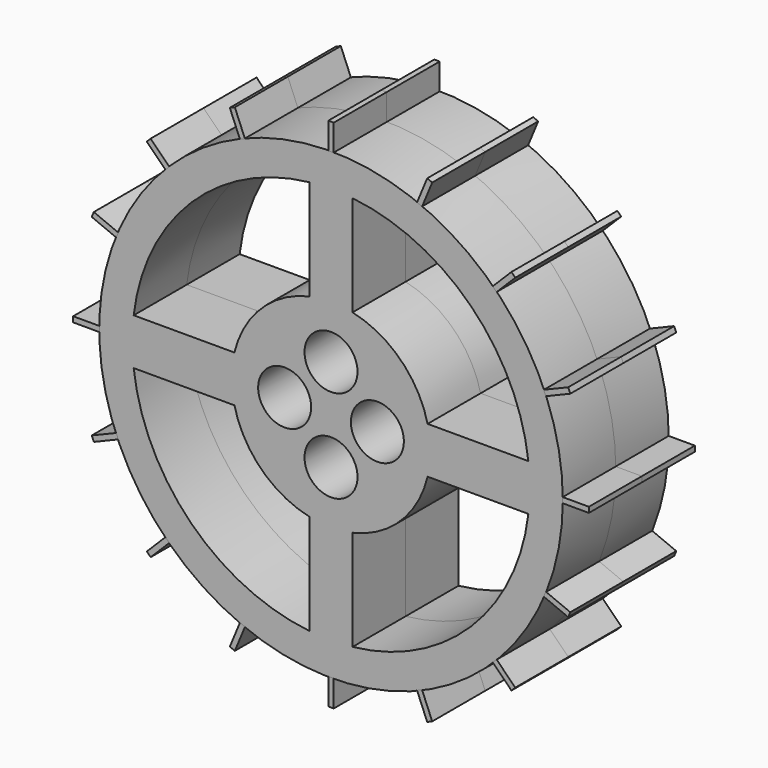
from build123d import *

# Parameters (mm, degrees)
F0_R      = 44.45
F1_DEPTH  = 12.7
F3_D      = 76.2
F4_W      = 38.530776
F4_H      = 8.910986
F4_W_2    = 8.252282
F4_H_2    = 37.693239
F5_DEPTH  = 12.7
F6_R      = 19.05
F7_DEPTH  = 12.7
F8_R      = 5.08
F9_DEPTH  = 12.701
F10_W     = 1.040262
F10_H     = 5.08
F11_DEPTH = 12.7
F12_COUNT = 16


with BuildPart() as f1:
    # F0 (on Front) → F1 (new body)
    with BuildSketch(Plane.XZ):
        Circle(F0_R)
    extrude(amount=F1_DEPTH)

    # F3 (through all)
    with Locations(Plane.XZ.offset(12.7)):
        with Locations((0, 0)):
            Hole(F3_D / 2)

    # F4 (on Front) → F5 (join)
    with BuildSketch(Plane.XZ):
        with Locations((23.391529, 0)):
            Rectangle(F4_W, F4_H)
        with Locations((-23.391529, 0)):
            Rectangle(F4_W, F4_H)
        with Locations((0, -23.302112)):
            Rectangle(F4_W_2, F4_H_2)
        with Locations((0, 23.302112)):
            Rectangle(F4_W_2, F4_H_2)
        with Locations((0, -23.302112)):
            Rectangle(F4_W_2, F4_H_2)
    extrude(amount=F5_DEPTH)

    # F6 (on Front) → F7 (join)
    with BuildSketch(Plane.XZ):
        Circle(F6_R)
    extrude(amount=F7_DEPTH)

    # F8 (on Front) → F9 (cut, through all)
    with BuildSketch(Plane.XZ):
        with Locations((0, 8.89)):
            Circle(F8_R)
        with Locations((8.89, 0)):
            Circle(F8_R)
        with Locations((0, -8.89)):
            Circle(F8_R)
        with Locations((-8.89, 0)):
            Circle(F8_R)
    extrude(amount=F9_DEPTH, mode=Mode.SUBTRACT)


with BuildPart() as f11:
    # F10 (on Front) → F11 (new body)
    with BuildSketch(Plane.XZ):
        with Locations((0, 46.90598)):
            Rectangle(F10_W, F10_H)
    extrude(amount=F11_DEPTH)


with BuildPart() as f12_1:
    # F12: instance of F11
    add(f11.part.rotate(Axis((0, 0, 0), (0, 1, 0)), 1 * 360 / F12_COUNT))


with BuildPart() as f12_2:
    # F12: instance of F11
    add(f11.part.rotate(Axis((0, 0, 0), (0, 1, 0)), 2 * 360 / F12_COUNT))


with BuildPart() as f12_3:
    # F12: instance of F11
    add(f11.part.rotate(Axis((0, 0, 0), (0, 1, 0)), 3 * 360 / F12_COUNT))


with BuildPart() as f12_4:
    # F12: instance of F11
    add(f11.part.rotate(Axis((0, 0, 0), (0, 1, 0)), 4 * 360 / F12_COUNT))


with BuildPart() as f12_5:
    # F12: instance of F11
    add(f11.part.rotate(Axis((0, 0, 0), (0, 1, 0)), 5 * 360 / F12_COUNT))


with BuildPart() as f12_6:
    # F12: instance of F11
    add(f11.part.rotate(Axis((0, 0, 0), (0, 1, 0)), 6 * 360 / F12_COUNT))


with BuildPart() as f12_7:
    # F12: instance of F11
    add(f11.part.rotate(Axis((0, 0, 0), (0, 1, 0)), 7 * 360 / F12_COUNT))


with BuildPart() as f12_8:
    # F12: instance of F11
    add(f11.part.rotate(Axis((0, 0, 0), (0, 1, 0)), 8 * 360 / F12_COUNT))


with BuildPart() as f12_9:
    # F12: instance of F11
    add(f11.part.rotate(Axis((0, 0, 0), (0, 1, 0)), 9 * 360 / F12_COUNT))


with BuildPart() as f12_10:
    # F12: instance of F11
    add(f11.part.rotate(Axis((0, 0, 0), (0, 1, 0)), 10 * 360 / F12_COUNT))


with BuildPart() as f12_11:
    # F12: instance of F11
    add(f11.part.rotate(Axis((0, 0, 0), (0, 1, 0)), 11 * 360 / F12_COUNT))


with BuildPart() as f12_12:
    # F12: instance of F11
    add(f11.part.rotate(Axis((0, 0, 0), (0, 1, 0)), 12 * 360 / F12_COUNT))


with BuildPart() as f12_13:
    # F12: instance of F11
    add(f11.part.rotate(Axis((0, 0, 0), (0, 1, 0)), 13 * 360 / F12_COUNT))


with BuildPart() as f12_14:
    # F12: instance of F11
    add(f11.part.rotate(Axis((0, 0, 0), (0, 1, 0)), 14 * 360 / F12_COUNT))


with BuildPart() as f12_15:
    # F12: instance of F11
    add(f11.part.rotate(Axis((0, 0, 0), (0, 1, 0)), 15 * 360 / F12_COUNT))


with BuildPart() as f13_1:
    # F13: instance of F12_15
    add(f12_15.part.mirror(Plane.XZ))


with BuildPart() as f13_2:
    # F13: instance of F12_14
    add(f12_14.part.mirror(Plane.XZ))


with BuildPart() as f13_3:
    # F13: instance of F12_13
    add(f12_13.part.mirror(Plane.XZ))


with BuildPart() as f13_4:
    # F13: instance of F12_12
    add(f12_12.part.mirror(Plane.XZ))


with BuildPart() as f13_5:
    # F13: instance of F12_11
    add(f12_11.part.mirror(Plane.XZ))


with BuildPart() as f13_6:
    # F13: instance of F12_10
    add(f12_10.part.mirror(Plane.XZ))


with BuildPart() as f13_7:
    # F13: instance of F12_9
    add(f12_9.part.mirror(Plane.XZ))


with BuildPart() as f13_8:
    # F13: instance of F12_8
    add(f12_8.part.mirror(Plane.XZ))


with BuildPart() as f13_9:
    # F13: instance of F12_7
    add(f12_7.part.mirror(Plane.XZ))


with BuildPart() as f13_10:
    # F13: instance of F12_6
    add(f12_6.part.mirror(Plane.XZ))


with BuildPart() as f13_11:
    # F13: instance of F12_5
    add(f12_5.part.mirror(Plane.XZ))


with BuildPart() as f13_12:
    # F13: instance of F12_4
    add(f12_4.part.mirror(Plane.XZ))


with BuildPart() as f13_13:
    # F13: instance of F12_3
    add(f12_3.part.mirror(Plane.XZ))


with BuildPart() as f13_14:
    # F13: instance of F12_2
    add(f12_2.part.mirror(Plane.XZ))


with BuildPart() as f13_15:
    # F13: instance of F12_1
    add(f12_1.part.mirror(Plane.XZ))


with BuildPart() as f13_16:
    # F13: instance of F11
    add(f11.part.mirror(Plane.XZ))


with BuildPart() as f13_17:
    # F13: instance of F1
    add(f1.part.mirror(Plane.XZ))


solid = Compound([f1.part, f11.part, f12_1.part, f12_2.part, f12_3.part, f12_4.part, f12_5.part, f12_6.part, f12_7.part, f12_8.part, f12_9.part, f12_10.part, f12_11.part, f12_12.part, f12_13.part, f12_14.part, f12_15.part, f13_1.part, f13_2.part, f13_3.part, f13_4.part, f13_5.part, f13_6.part, f13_7.part, f13_8.part, f13_9.part, f13_10.part, f13_11.part, f13_12.part, f13_13.part, f13_14.part, f13_15.part, f13_16.part, f13_17.part])
